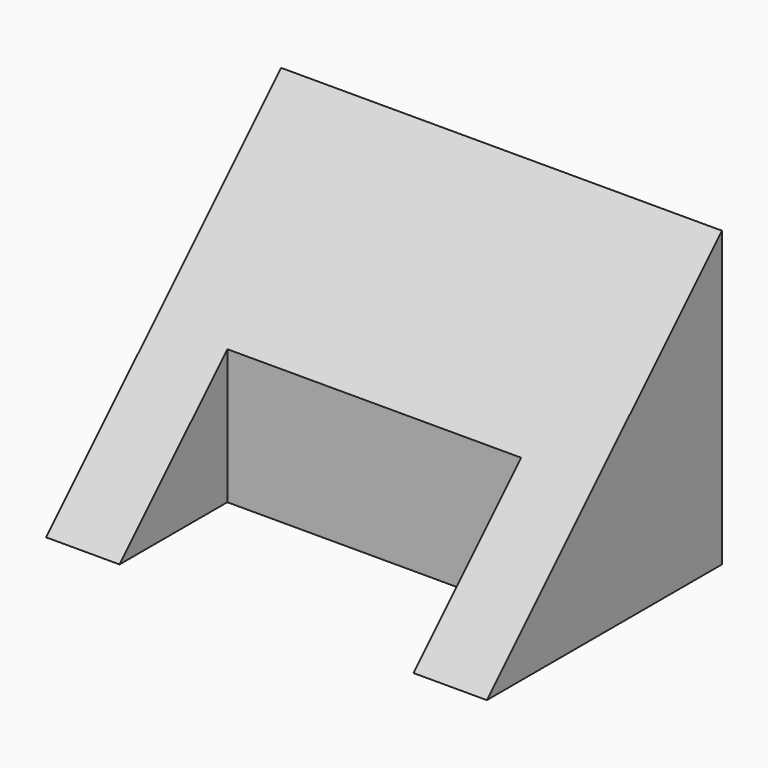
from build123d import *

# Parameters (mm, degrees)
F1_DEPTH = 38.1
F2_W     = 25.4
F2_H     = 11.648427
F3_DEPTH = 25.4


with BuildPart() as f1:
    # F0 (on Right) → F1 (new body)
    with BuildSketch(Plane.YZ):
        Polygon((-25.4, 0), (0, 0), (0, 25.4), align=None)
    extrude(amount=-F1_DEPTH)

    # F2 (on Top) → F3 (cut)
    with BuildSketch(Plane.XY):
        with Locations((-19.05, -19.575786)):
            Rectangle(F2_W, F2_H)
    extrude(amount=F3_DEPTH, mode=Mode.SUBTRACT)


solid = f1.part
